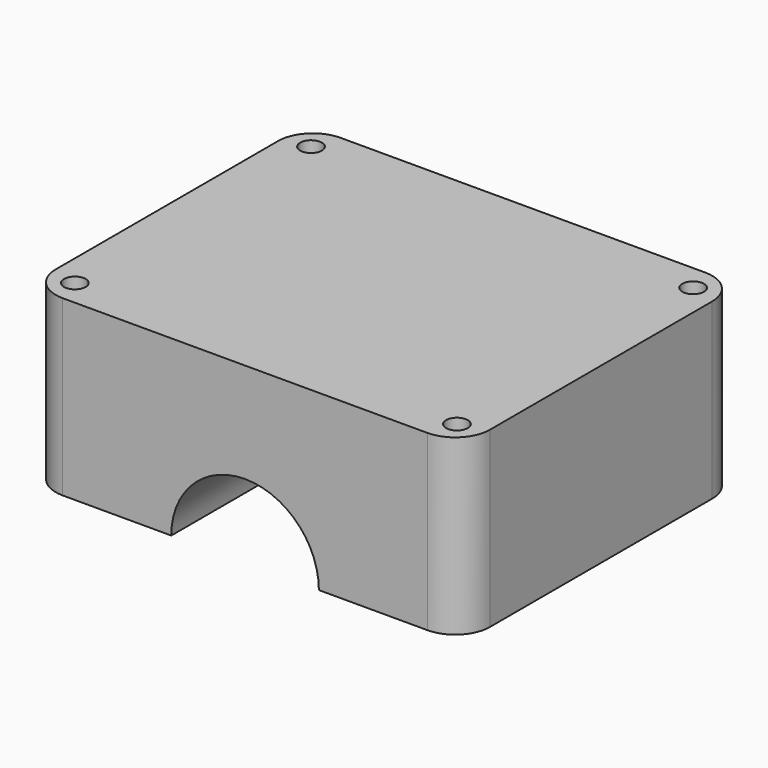
from build123d import *

# Parameters (mm, degrees)
SKETCH_W        = 50
SKETCH_H        = 40
PAD_DEPTH       = 20
SKETCH001_R     = 8.5
POCKET_DEPTH    = 40.001
SKETCH002_R     = 1.25
POCKET001_DEPTH = 20.001
FILLET_R        = 4


with BuildPart() as part:
    # Sketch → Pad (new body)
    with BuildSketch(Plane.XY):
        Rectangle(SKETCH_W, SKETCH_H)
    extrude(amount=PAD_DEPTH)

    # Sketch001 (on Face2 of Pad) → Pocket (cut, through all)
    with BuildSketch(Plane.XZ.offset(20)):
        Circle(SKETCH001_R)
    extrude(amount=-POCKET_DEPTH, mode=Mode.SUBTRACT)

    # Sketch002 (on Face5 of Pocket) → Pocket001 (cut, through all)
    with BuildSketch(Plane.XY.offset(20)):
        with Locations((-22, 17)):
            Circle(SKETCH002_R)
        with Locations((22, 17)):
            Circle(SKETCH002_R)
        with Locations((22, -17)):
            Circle(SKETCH002_R)
        with Locations((-22, -17)):
            Circle(SKETCH002_R)
    extrude(amount=-POCKET001_DEPTH, mode=Mode.SUBTRACT)

    # Fillet
    fillet_edges = [part.edges().sort_by_distance(p)[0] for p in [
        (-25, -20, 10),
        (-25, 20, 10),
        (25, 20, 10),
        (25, -20, 10),
    ]]
    fillet(fillet_edges, radius=FILLET_R)


solid = part.part
